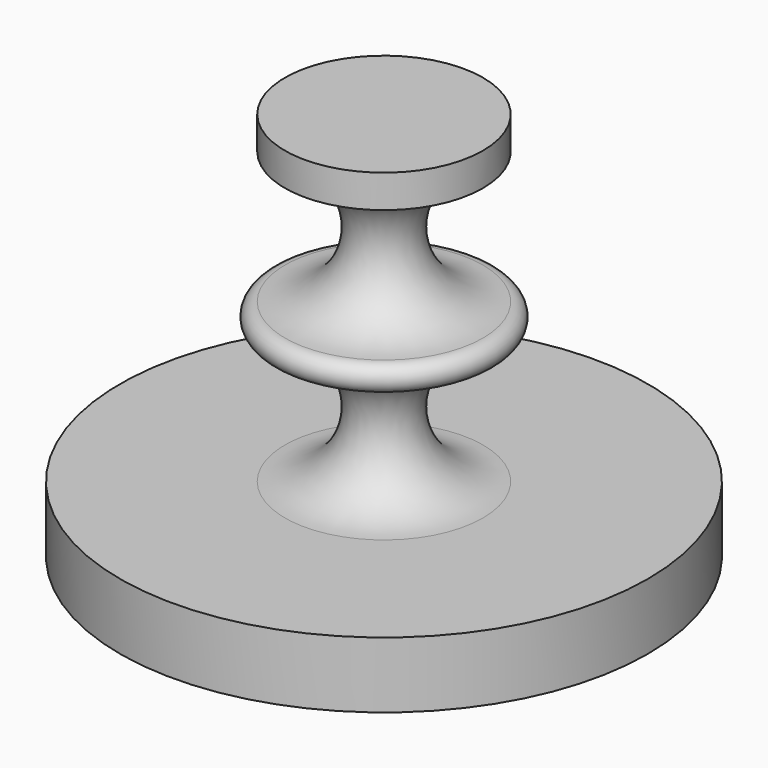
from build123d import *


with BuildPart() as f1:
    # F0 (on Front) → F1 (revolve)
    with BuildSketch(Plane.XZ):
        with BuildLine():
            Line((0, 51.462685), (0, -23.467315))
            Line((0, -23.467315), (50.8, -23.467315))
            Line((50.8, -23.467315), (50.8, -10.767315))
            Line((50.8, -10.767315), (19.05, -10.767315))
            ThreePointArc((19.05, -10.767315), (6.35, 1.932685), (19.05, 14.632685))
            ThreePointArc((19.05, 14.632685), (21.59, 17.172685), (19.05, 19.712685))
            ThreePointArc((19.05, 19.712685), (6.35, 32.412685), (19.05, 45.112685))
            Line((19.05, 45.112685), (19.05, 51.462685))
            Line((19.05, 51.462685), (0, 51.462685))
        make_face()
    revolve(axis=Axis((0, 0, 13.997685), (0, 0, -1)))


solid = f1.part
